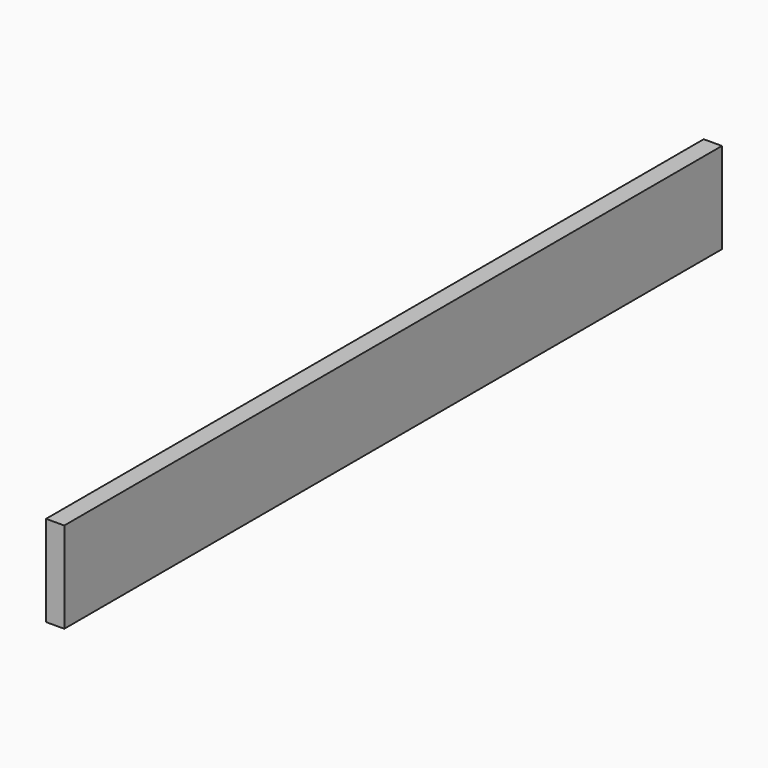
from build123d import *

# Parameters (mm, degrees)
PAD_DEPTH = 10


with BuildPart() as part:
    # Sketch → Pad (new body)
    with BuildSketch(Plane.YZ):
        Polygon((0, 0), (0, 50), (452, 50), (452, 0), (226, 0), align=None)
    extrude(amount=-PAD_DEPTH)


solid = part.part
